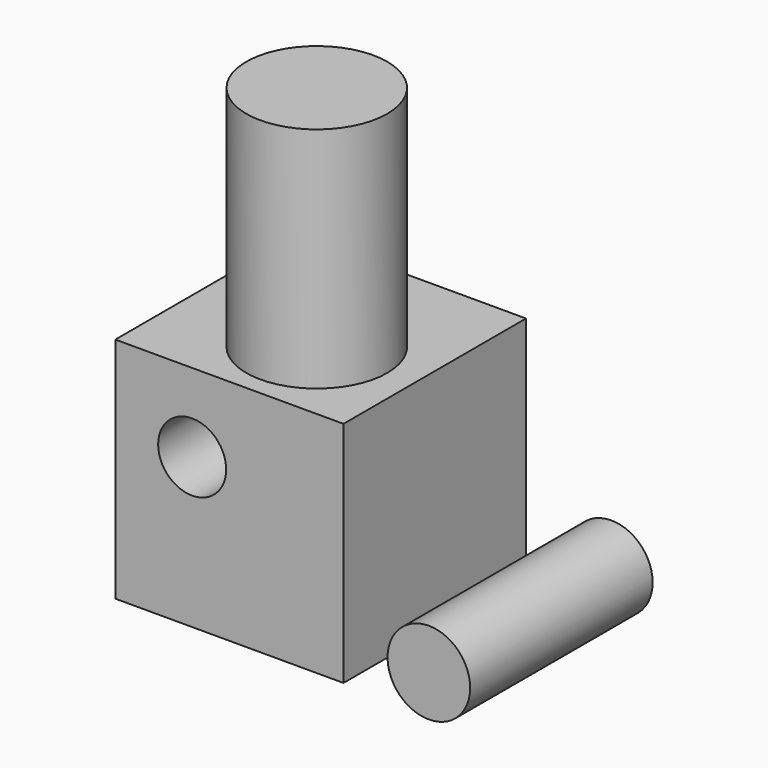
from build123d import *

# Parameters (mm, degrees)
F0_W     = 50
F0_H     = 50
F1_DEPTH = 50
F2_R     = 9.047983
F3_DEPTH = 50
F5_R     = 7.453212
F6_DEPTH = 60
F4_R     = 15.451466
F7_DEPTH = 50


with BuildPart() as f1:
    # F0 (on Top) → F1 (new body)
    with BuildSketch(Plane.XY):
        with Locations((-2.479169, 0)):
            Rectangle(F0_W, F0_H)
    extrude(amount=F1_DEPTH)

    # F5 (on face) → F6 (cut)
    with BuildSketch(Plane(origin=(0, 25, 0), x_dir=(-1, 0, 0), z_dir=(0, 1, 0))):
        with Locations((10.645833, 32.812502)):
            Circle(F5_R)
    extrude(amount=-F6_DEPTH, mode=Mode.SUBTRACT)

    # F4 (on face) → F7 (join)
    with BuildSketch(Plane.XY.offset(50)):
        with Locations((1.142243, -5.595263)):
            Circle(F4_R)
    extrude(amount=F7_DEPTH)


with BuildPart() as f3:
    # F2 (on Front) → F3 (new body)
    with BuildSketch(Plane.XZ):
        with Locations((61.2319, 24.748858)):
            Circle(F2_R)
    extrude(amount=F3_DEPTH)


solid = Compound([f1.part, f3.part])
